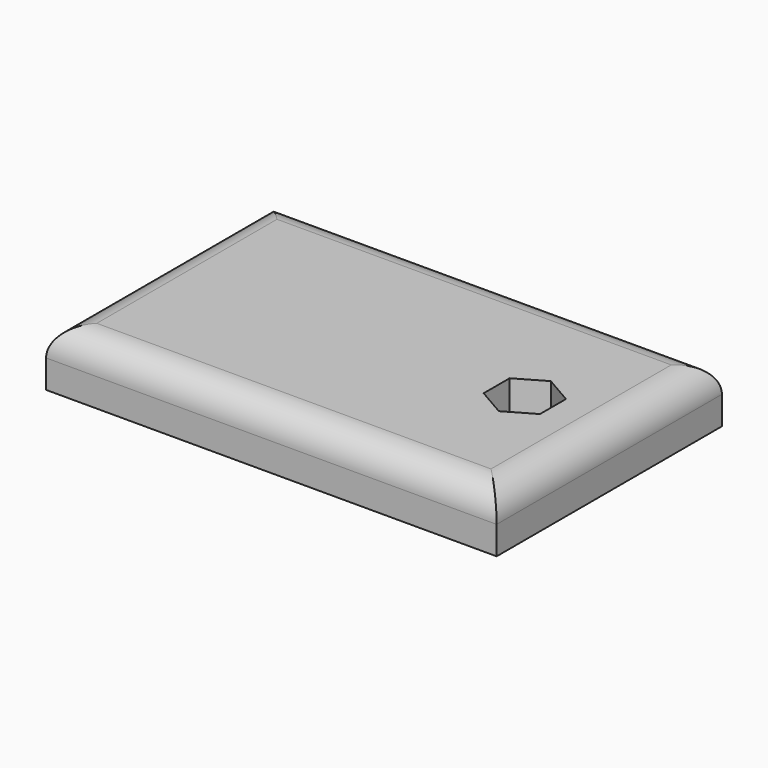
from build123d import *

# Parameters (mm, degrees)
F0_W     = 80
F0_H     = 50
F1_DEPTH = 10
F3_DEPTH = 15
F4_R     = 5


with BuildPart() as f1:
    # F0 (on Top) → F1 (new body)
    with BuildSketch(Plane.XY):
        Rectangle(F0_W, F0_H)
    extrude(amount=F1_DEPTH)

    # F2 (on face) → F3 (cut)
    with BuildSketch(Plane.XY.offset(10)):
        Polygon((25, -5.773503), (30, -2.886751), (30, 2.886751), (25, 5.773503), (20, 2.886751), (20, -2.886751), align=None)
    extrude(amount=-F3_DEPTH, mode=Mode.SUBTRACT)

    # F4
    f4_edges = [f1.edges().sort_by_distance(p)[0] for p in [
        (0, -25, 10),
        (40, 0, 10),
        (0, 25, 10),
        (-40, 0, 10),
    ]]
    fillet(f4_edges, radius=F4_R)


solid = f1.part
